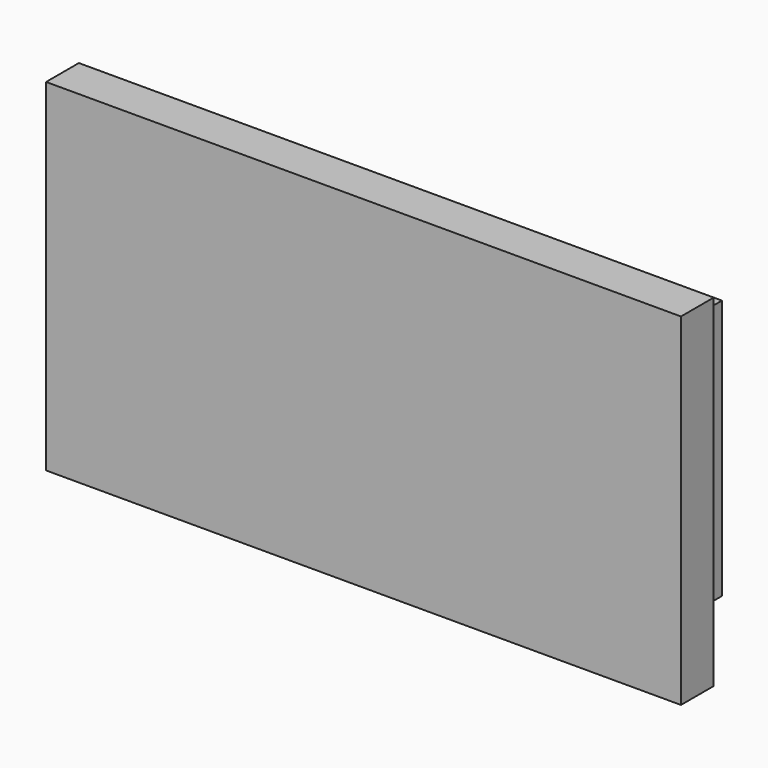
from build123d import *

# Parameters (mm, degrees)
F0_W     = 31
F0_H     = 16.7
F0_W_2   = 27
F0_H_2   = 12.7
F1_DEPTH = 2
F2_W     = 27
F2_H     = 12.7
F3_DEPTH = 5


with BuildPart() as f1:
    # F0 (on Front) → F1 (new body)
    with BuildSketch(Plane.XZ):
        Rectangle(F0_W, F0_H)
        Rectangle(F0_W_2, F0_H_2, mode=Mode.SUBTRACT)
    extrude(amount=F1_DEPTH)

    # F2 (on face) → F3 (join)
    with BuildSketch(Plane.XZ.offset(2)):
        Rectangle(F2_W, F2_H)
    extrude(amount=-F3_DEPTH)


solid = f1.part
